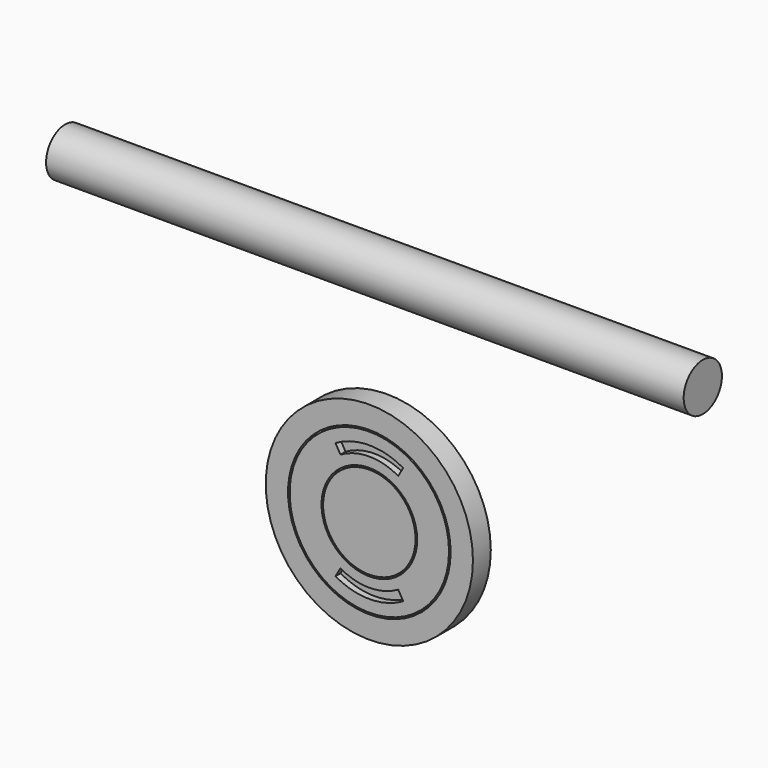
from build123d import *

# Parameters (mm, degrees)
CYLINDER_R                  = 15
CYLINDER_DEPTH              = 400
CYLINDER003_W               = 36.25
CYLINDER003_H               = 4.5
CYLINDER003_ANGLE           = 60
CYLINDER003_ROLL_ANGLE      = -90
CYLINDER003_PITCH_ANGLE     = 60
CYLINDER003_PLACEMENT_ANGLE = -180
CYLINDER004_W               = 42.5
CYLINDER004_H               = 4.5
CYLINDER004_ANGLE           = 60
CYLINDER004_ROLL_ANGLE      = -90
CYLINDER004_PITCH_ANGLE     = 60
CYLINDER004_PLACEMENT_ANGLE = -180
CYLINDER006_W               = 36.25
CYLINDER006_H               = 4.5
CYLINDER006_ANGLE           = 60
CYLINDER006_ROLL_ANGLE      = 90
CYLINDER006_PITCH_ANGLE     = -60
CYLINDER005_W               = 42.5
CYLINDER005_H               = 4.5
CYLINDER005_ANGLE           = 60
CYLINDER005_ROLL_ANGLE      = 90
CYLINDER005_PITCH_ANGLE     = -60
CYLINDER002_R               = 30
CYLINDER002_DEPTH           = 4.5
CYLINDER001_R               = 50
CYLINDER001_DEPTH           = 4
CYLINDER007_R               = 65
CYLINDER007_DEPTH           = 10
CYLINDER008_R               = 29
CYLINDER008_DEPTH           = 4
TUBE_R                      = 65
TUBE_R_2                    = 51
TUBE_DEPTH                  = 4


with BuildPart() as hor:
    # Cylinder → Cylinder (new body)
    with BuildSketch(Plane(origin=(0, 0, 150), x_dir=(0, 0, 1), z_dir=(1, 0, 0))):
        Circle(CYLINDER_R)
    extrude(amount=CYLINDER_DEPTH)


with BuildPart() as cylinder003:
    # Cylinder003 → Cylinder003 (revolve)
    with BuildSketch(Plane.XZ):
        with Locations((18.125, 2.25)):
            Rectangle(CYLINDER003_W, CYLINDER003_H)
    revolve(axis=Axis((0, 0, 0), (0, 0, 1)), revolution_arc=CYLINDER003_ANGLE)


with BuildPart() as cylinder003_1:
    # Cylinder003 roll: moved
    add(cylinder003.part.rotate(Axis((0, 0, 0), (1, 0, 0)), CYLINDER003_ROLL_ANGLE))


with BuildPart() as cylinder003_2:
    # Cylinder003 pitch: moved
    add(cylinder003_1.part.rotate(Axis((0, 0, 0), (0, 1, 0)), CYLINDER003_PITCH_ANGLE))


with BuildPart() as cylinder003_3:
    # Cylinder003 placement: moved
    add(cylinder003_2.part.moved(Location((182, -19, 0))).rotate(Axis((182, -19, 0), (0, 0, 1)), CYLINDER003_PLACEMENT_ANGLE))


with BuildPart() as cut001:
    # Cylinder004 → Cylinder004 (revolve)
    with BuildSketch(Plane.XZ):
        with Locations((21.25, 2.25)):
            Rectangle(CYLINDER004_W, CYLINDER004_H)
    revolve(axis=Axis((0, 0, 0), (0, 0, 1)), revolution_arc=CYLINDER004_ANGLE)


with BuildPart() as cut001_1:
    # Cylinder004 roll: moved
    add(cut001.part.rotate(Axis((0, 0, 0), (1, 0, 0)), CYLINDER004_ROLL_ANGLE))


with BuildPart() as cut001_2:
    # Cylinder004 pitch: moved
    add(cut001_1.part.rotate(Axis((0, 0, 0), (0, 1, 0)), CYLINDER004_PITCH_ANGLE))


with BuildPart() as cut001_3:
    # Cylinder004 placement: moved
    add(cut001_2.part.moved(Location((182, -19, 0))).rotate(Axis((182, -19, 0), (0, 0, 1)), CYLINDER004_PLACEMENT_ANGLE))

    # Cut001: cut Cylinder003
    add(cylinder003_3.part, mode=Mode.SUBTRACT)


with BuildPart() as cylinder006:
    # Cylinder006 → Cylinder006 (revolve)
    with BuildSketch(Plane.XZ):
        with Locations((18.125, 2.25)):
            Rectangle(CYLINDER006_W, CYLINDER006_H)
    revolve(axis=Axis((0, 0, 0), (0, 0, 1)), revolution_arc=CYLINDER006_ANGLE)


with BuildPart() as cylinder006_1:
    # Cylinder006 roll: moved
    add(cylinder006.part.rotate(Axis((0, 0, 0), (1, 0, 0)), CYLINDER006_ROLL_ANGLE))


with BuildPart() as cylinder006_2:
    # Cylinder006 pitch: moved
    add(cylinder006_1.part.rotate(Axis((0, 0, 0), (0, 1, 0)), CYLINDER006_PITCH_ANGLE))


with BuildPart() as cylinder006_3:
    # Cylinder006 placement: moved
    add(cylinder006_2.part.moved(Location((182, -19, 0))))


with BuildPart() as fusion:
    # Cylinder005 → Cylinder005 (revolve)
    with BuildSketch(Plane.XZ):
        with Locations((21.25, 2.25)):
            Rectangle(CYLINDER005_W, CYLINDER005_H)
    revolve(axis=Axis((0, 0, 0), (0, 0, 1)), revolution_arc=CYLINDER005_ANGLE)


with BuildPart() as fusion_1:
    # Cylinder005 roll: moved
    add(fusion.part.rotate(Axis((0, 0, 0), (1, 0, 0)), CYLINDER005_ROLL_ANGLE))


with BuildPart() as fusion_2:
    # Cylinder005 pitch: moved
    add(fusion_1.part.rotate(Axis((0, 0, 0), (0, 1, 0)), CYLINDER005_PITCH_ANGLE))


with BuildPart() as fusion_3:
    # Cylinder005 placement: moved
    add(fusion_2.part.moved(Location((182, -19, 0))))

    # Cut002: cut Cylinder006
    add(cylinder006_3.part, mode=Mode.SUBTRACT)

    # Fusion: union Cut001
    add(cut001_3.part)


with BuildPart() as cylinder002:
    # Cylinder002 → Cylinder002 (new body)
    with BuildSketch(Plane(origin=(182, -19, 0), x_dir=(1, 0, 0), z_dir=(0, -1, 0))):
        Circle(CYLINDER002_R)
    extrude(amount=CYLINDER002_DEPTH)


with BuildPart() as cameraplate001:
    # Cylinder001 → Cylinder001 (new body)
    with BuildSketch(Plane(origin=(182, -19, 0), x_dir=(1, 0, 0), z_dir=(0, -1, 0))):
        Circle(CYLINDER001_R)
    extrude(amount=CYLINDER001_DEPTH)

    # Cut: cut Cylinder002
    add(cylinder002.part, mode=Mode.SUBTRACT)

    # Cut003: cut Fusion
    add(fusion_3.part, mode=Mode.SUBTRACT)


with BuildPart() as cameraplate001_1:
    # Cut003 placement: moved
    add(cameraplate001.part.moved(Location((0, 34, 0))))


with BuildPart() as cylinder007:
    # Cylinder007 → Cylinder007 (new body)
    with BuildSketch(Plane(origin=(182, 25, 0), x_dir=(1, 0, 0), z_dir=(0, -1, 0))):
        Circle(CYLINDER007_R)
    extrude(amount=CYLINDER007_DEPTH)


with BuildPart() as cylinder008:
    # Cylinder008 → Cylinder008 (new body)
    with BuildSketch(Plane(origin=(182, 15, 0), x_dir=(1, 0, 0), z_dir=(0, -1, 0))):
        Circle(CYLINDER008_R)
    extrude(amount=CYLINDER008_DEPTH)


with BuildPart() as camback:
    # Tube → Tube (new body)
    with BuildSketch(Plane(origin=(182, 15, 0), x_dir=(1, 0, 0), z_dir=(0, -1, 0))):
        Circle(TUBE_R)
        Circle(TUBE_R_2, mode=Mode.SUBTRACT)
    extrude(amount=TUBE_DEPTH)

    # Fusion001: union Cylinder007, Cylinder008
    add(cylinder007.part)
    add(cylinder008.part)


solid = Compound([hor.part, cameraplate001_1.part, camback.part])
